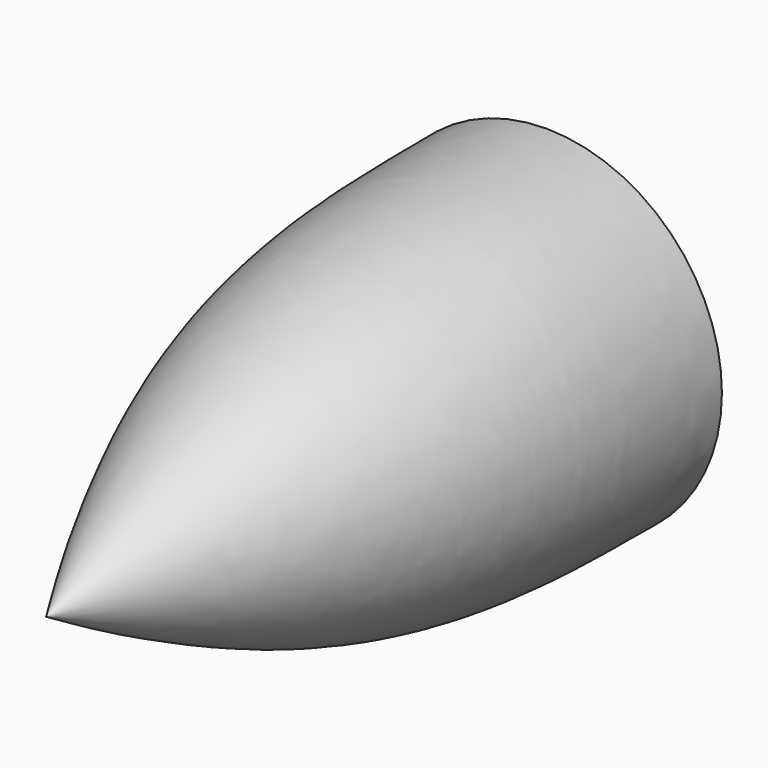
from build123d import *


with BuildPart() as f1:
    # F0 (on Right) → F1 (revolve)
    with BuildSketch(Plane.YZ):
        with BuildLine():
            add(Edge.make_bspline(
                [(-457.2, 0), (-423.4318006306, 20.050077419), (-356.3373082334, 59.887847631), (-254.5818058638, 112.0807850112), (-153.1680216755, 158.957998149), (-51.5088503876, 196.9759223793), (50.2622378141, 225.4122906624), (152.1232291961, 243.5921967653), (253.8887716405, 253.858973382), (355.590580735, 256.6887378804), (423.3336686942, 256.9621266512), (457.2, 257.0988)],
                knots=[0, 0, 0, 0, 0.1162693996, 0.2310172437, 0.3443750211, 0.4560796713, 0.5662462498, 0.6752695755, 0.7836857659, 0.8918595279, 1, 1, 1, 1], degree=3))
            Line((-457.2, 0), (457.2, 0))
            Line((457.2, 0), (457.2, 257.0988))
        make_face()
    revolve(axis=Axis((0, 0, 0), (0, 1, 0)))


solid = f1.part
